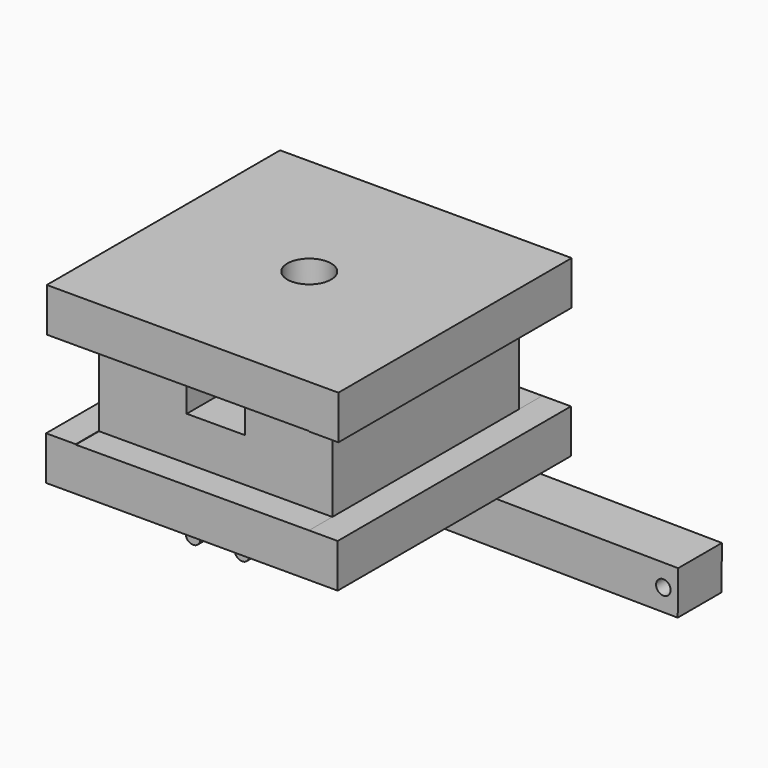
from build123d import *

# Parameters (mm, degrees)
F0_W      = 127
F0_H      = 19.05
F3_DEPTH  = 127
F2_W      = 127
F2_H      = 19.05
F4_DEPTH  = 127
F5_DEPTH  = 127
F6_DEPTH  = 12.7
F7_DEPTH  = 12.7
F9_DEPTH  = 114.301
F11_D     = 19.05
F11_DEPTH = 19.05
F11_TIP   = 5.7231973962
F13_DEPTH = 23.8252
F15_D     = 6.35
F16_R     = 3.175
F17_DEPTH = 63.5
F18_DEPTH = 63.5


with BuildPart() as f3:
    # F0 (on Front) → F3 (new body)
    with BuildSketch(Plane.XZ):
        with Locations((-12.6410444975, 47.4407625139)):
            Rectangle(F0_W, F0_H)
    extrude(amount=F3_DEPTH)


with BuildPart() as f4:
    # F2 (on Front) → F4 (new body)
    with BuildSketch(Plane.XZ):
        with Locations((-12.9505639672, -9.525)):
            Rectangle(F2_W, F2_H)
    extrude(amount=F4_DEPTH)


with BuildPart() as f5:
    # F1 (on Front) → F5 (new body)
    with BuildSketch(Plane.XZ):
        Polygon((38.070525974, 0), (38.1177432447, 38.0999707418), (-63.5986121923, 37.9149412066), (-63.5293056034, -0.1849957566), align=None)
    extrude(amount=F5_DEPTH)


with BuildPart() as f6_tool:
    # F6 (cut): a face of the model
    f6_faces = [f5.part.faces().sort_by_distance(p)[0] for p in [
        (-12.7349528417, 0, 18.9611182595),
    ]]
    extrude(f6_faces, amount=-F6_DEPTH)


with BuildPart() as f3_1:
    add(f3.part)

    # F6: cut by f6_tool
    add(f6_tool.part, mode=Mode.SUBTRACT)


with BuildPart() as f4_1:
    add(f4.part)

    # F6: cut by f6_tool
    add(f6_tool.part, mode=Mode.SUBTRACT)


with BuildPart() as f5_1:
    add(f5.part)

    # F6: cut by f6_tool
    add(f6_tool.part, mode=Mode.SUBTRACT)


with BuildPart() as f7_tool:
    # F7 (cut): a face of the model
    f7_faces = [f5_1.part.faces().sort_by_distance(p)[0] for p in [
        (-12.7349528417, -127, 18.9611182595),
    ]]
    extrude(f7_faces, amount=-F7_DEPTH)


with BuildPart() as f3_2:
    add(f3_1.part)

    # F7: cut by f7_tool
    add(f7_tool.part, mode=Mode.SUBTRACT)


with BuildPart() as f4_2:
    add(f4_1.part)

    # F7: cut by f7_tool
    add(f7_tool.part, mode=Mode.SUBTRACT)


with BuildPart() as f5_2:
    add(f5_1.part)

    # F7: cut by f7_tool
    add(f7_tool.part, mode=Mode.SUBTRACT)


with BuildPart() as f9_tool:
    # F8 (on face) → F9 (new body, through all)
    with BuildSketch(Plane.XZ.offset(114.3)):
        Polygon((0, 38.030631762), (-25.4986752292, 37.9842477955), (-25.365304681, 18.9344588878), (0.0346532944, 18.9806632804), align=None)
    extrude(amount=-F9_DEPTH)


with BuildPart() as f3_3:
    add(f3_2.part)

    # F9: cut by f9_tool
    add(f9_tool.part, mode=Mode.SUBTRACT)

    # F11
    with Locations(Plane.XY.offset(56.9657625139)):
        with Locations((-12.6410444975, -63.5)):
            Hole(F11_D / 2, depth=F11_DEPTH)
            with Locations((0, 0, -(F11_DEPTH + F11_TIP / 2))):  # 118° drill point
                Cone(0, F11_D / 2, F11_TIP, mode=Mode.SUBTRACT)


with BuildPart() as f5_3:
    add(f5_2.part)

    # F9: cut by f9_tool
    add(f9_tool.part, mode=Mode.SUBTRACT)


with BuildPart() as f13:
    # F12 (on Front) → F13 (new body)
    with BuildSketch(Plane.XZ):
        Polygon((-99.7895821929, -28.7702886879), (-99.7895821929, -47.8202886879), (116.0990463358, -50.0361569129), (116.2945641204, -30.987160278), (-10.6987467789, -29.683708381), (-19.4000976518, -38.9344647277), (-28.1488456053, -38.5180272878), (-36.2895821929, -28.7702886879), align=None)
    extrude(amount=F13_DEPTH)

    # F15 (through all)
    with Locations(Plane.XZ.offset(23.8252)):
        with Locations((-93.4395821929, -38.2952886879), (109.8471396831, -40.4464860006)):
            Hole(F15_D / 2)


with BuildPart() as f17:
    # F16 (on Front) → F17 (new body)
    with BuildSketch(Plane.XZ):
        with Locations((-63.2458105683, -61.1294955015)):
            Circle(F16_R)
    extrude(amount=F17_DEPTH)

    # F16 (on Front) → F18 (join)
    with BuildSketch(Plane.XZ):
        with Locations((-63.2458105683, -61.1294955015)):
            Circle(F16_R)
    extrude(amount=F18_DEPTH)


with BuildPart() as f18:
    # F16 (on Front) → F18, piece 2 (new body)
    with BuildSketch(Plane.XZ):
        with Locations((-41.8891720474, -60.5104640126)):
            Circle(F16_R)
    extrude(amount=F18_DEPTH)


solid = Compound([f4_2.part, f3_3.part, f5_3.part, f13.part, f17.part, f18.part])
